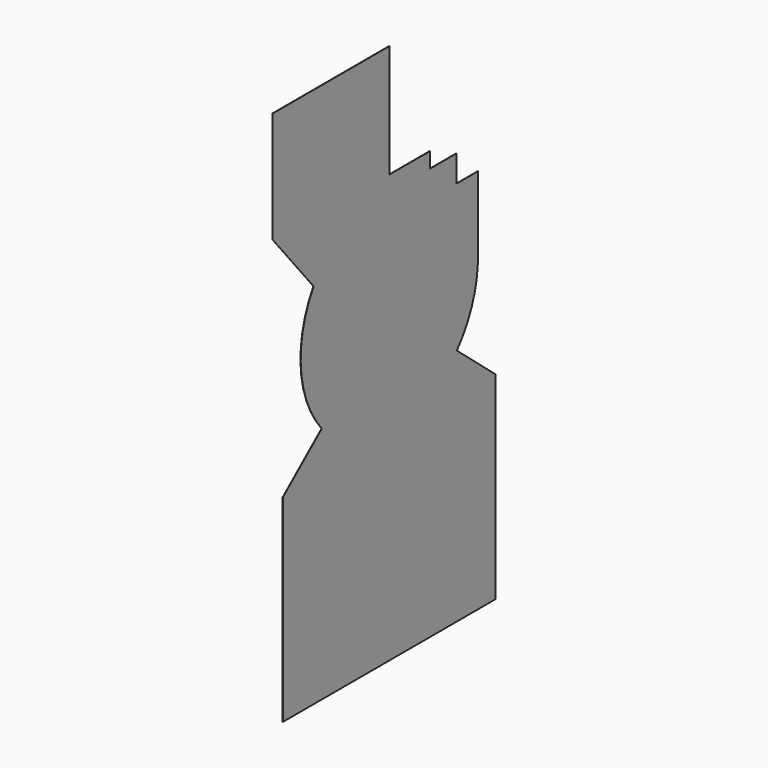
from build123d import *

# Parameters (mm, degrees)
PAD_DEPTH = 1


with BuildPart() as part:
    # Sketch → Pad (new body)
    with BuildSketch(Plane.YZ.offset(-500)):
        with BuildLine():
            ThreePointArc((-427.08313, 260), (-498.445232, -39.399887), (-380.9308, -323.869921))
            Line((-380.9308, -323.869921), (-600, -507.690796))
            Line((-600, -507.690796), (-600, -1400))
            Line((-600, -1400), (600, -1400))
            Line((600, -1400), (600, -507.690796))
            Line((600, -507.690796), (380.9308, -323.869921))
            ThreePointArc((380.9308, -323.869921), (465.068634, -183.606008), (499.438281, -23.693945))
            Line((499.438281, 340), (499.438281, -23.693945))
            Line((380, 340), (499.438281, 340))
            Line((380, 460), (380, 340))
            Line((230, 460), (380, 460))
            Line((230, 530), (230, 460))
            Line((0, 530), (230, 530))
            Line((0, 1040), (0, 530))
            Line((-658.874021, 1040), (0, 1040))
            Line((-658.874021, 1040), (-658.874021, 540))
            Line((-427.08313, 260), (-658.874021, 540))
        make_face()
    extrude(amount=-PAD_DEPTH)


solid = part.part
